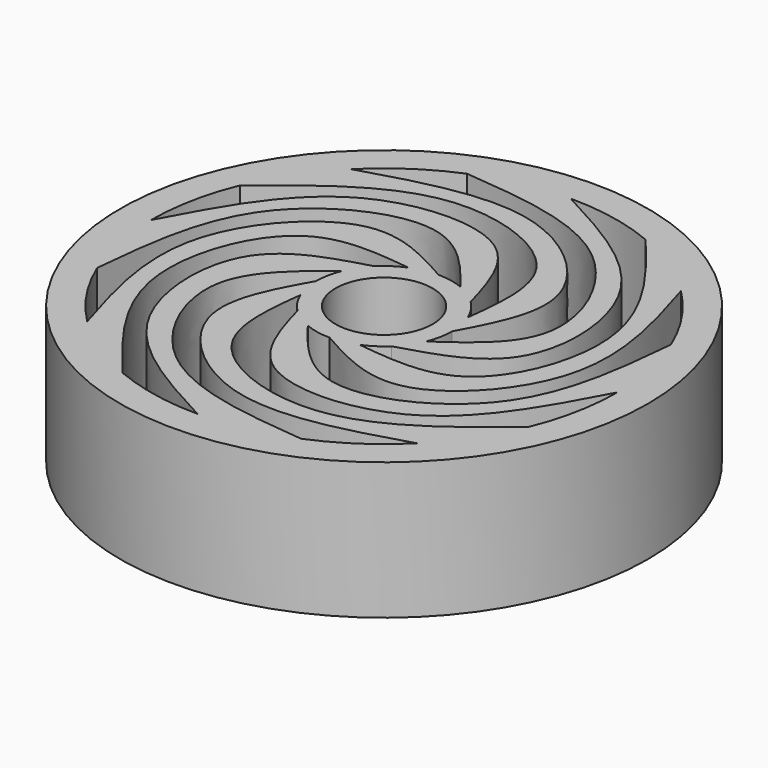
from build123d import *

# Parameters (mm, degrees)
F0_R     = 13.5
F0_R_2   = 2.4852724595
F1_DEPTH = 7


with BuildPart() as f1:
    # F0 (on Top) → F1 (new body)
    with BuildSketch(Plane.XY):
        Circle(F0_R)
        with BuildLine():
            ThreePointArc((-11.0212433186, 4.5651484568), (-9.9188569362, 6.6275683173), (-8.4352944442, 8.4352944442))
            ThreePointArc((-8.4352944442, 8.4352944442), (-6.6275683173, 9.9188569362), (-4.5651484568, 11.0212433186))
            ThreePointArc((-4.5651484568, 11.0212433186), (-2.3272925012, 11.7000895011), (0, 11.9293078056))
            ThreePointArc((0, 11.9293078056), (2.3272925012, 11.7000895011), (4.5651484568, 11.0212433186))
            ThreePointArc((4.5651484568, 11.0212433186), (6.6275683173, 9.9188569362), (8.4352944442, 8.4352944442))
            ThreePointArc((8.4352944442, 8.4352944442), (9.9188569362, 6.6275683173), (11.0212433186, 4.5651484568))
            ThreePointArc((11.0212433186, 4.5651484568), (11.7000895011, 2.3272925012), (11.9293078056, 0))
            ThreePointArc((11.9293078056, 0), (11.7000895011, -2.3272925012), (11.0212433186, -4.5651484568))
            ThreePointArc((11.0212433186, -4.5651484568), (9.9188569362, -6.6275683173), (8.4352944442, -8.4352944442))
            ThreePointArc((8.4352944442, -8.4352944442), (6.6275683173, -9.9188569362), (4.5651484568, -11.0212433186))
            ThreePointArc((4.5651484568, -11.0212433186), (2.3272925012, -11.7000895011), (0, -11.9293078056))
            ThreePointArc((0, -11.9293078056), (-2.3272925012, -11.7000895011), (-4.5651484568, -11.0212433186))
            ThreePointArc((-4.5651484568, -11.0212433186), (-6.6275683173, -9.9188569362), (-8.4352944442, -8.4352944442))
            ThreePointArc((-8.4352944442, -8.4352944442), (-9.9188569362, -6.6275683173), (-11.0212433186, -4.5651484568))
            ThreePointArc((-11.0212433186, -4.5651484568), (-11.7000895011, -2.3272925012), (-11.9293078056, 0))
            ThreePointArc((-11.9293078056, 0), (-11.7000895011, 2.3272925012), (-11.0212433186, 4.5651484568))
        make_face(mode=Mode.SUBTRACT)
        with BuildLine():
            add(Edge.make_bspline(
                [(11.0212433186, 4.5651484568), (10.7307703614, 1.5514252721), (10.1663660438, -4.1433714543), (2.2942810987, -7.8104935299), (-0.1989491839, -4.6915291397), (-1.3315016332, -3.2145293013)],
                knots=[0, 0, 0, 0, 0.3754408897, 0.7085801344, 1, 1, 1, 1], degree=3))
            ThreePointArc((-1.3315016332, -3.2145293013), (-1.9330407592, -2.8929999397), (-2.4602942129, -2.4602942129))
            add(Edge.make_bspline(
                [(11.9293078056, 0), (10.5030009531, -2.6730846833), (7.8115947966, -7.7171301221), (-0.8744432081, -8.0954908894), (-1.9556350248, -4.2535609012), (-2.4602942129, -2.4602942129)],
                knots=[0, 0, 0, 0, 0.3754632807, 0.7084900303, 1, 1, 1, 1], degree=3))
            ThreePointArc((11.9293078056, 0), (11.7000895011, 2.3272925012), (11.0212433186, 4.5651484568))
        make_face()
        with BuildLine():
            add(Edge.make_bspline(
                [(4.5651484568, 11.0212433186), (6.4882912926, 8.6805285734), (10.1197801342, 4.2634610727), (7.1432551055, -3.9049968446), (3.1838363189, -3.436219375), (1.3315016332, -3.2145293013)],
                knots=[0, 0, 0, 0, 0.3754632807, 0.7084900303, 1, 1, 1, 1], degree=3))
            ThreePointArc((1.3315016332, -3.2145293013), (0.6787936462, -3.4125261045), (0, -3.4793814433))
            add(Edge.make_bspline(
                [(8.4352944442, 8.4352944442), (9.3162939954, 5.5368010983), (10.9810136566, 0.0662522262), (5.1051295916, -6.3413520413), (1.6264969852, -4.3930541604), (0, -3.4793814433)],
                knots=[0, 0, 0, 0, 0.3754632807, 0.7084900303, 1, 1, 1, 1], degree=3))
            ThreePointArc((8.4352944442, 8.4352944442), (6.6275683173, 9.9188569362), (4.5651484568, 11.0212433186))
        make_face()
        with BuildLine():
            add(Edge.make_bspline(
                [(-4.5651484568, 11.0212433186), (-1.5653669998, 10.7472190798), (4.1505997502, 10.2265263001), (7.9846135159, 1.9883168119), (4.7170514854, -0.2873495043), (3.2145293013, -1.3315016332)],
                knots=[0, 0, 0, 0, 0.3743391134, 0.7130961412, 1, 1, 1, 1], degree=3))
            ThreePointArc((3.2145293013, -1.3315016332), (2.8692477592, -1.968124113), (2.399653463, -2.5194758355))
            add(Edge.make_bspline(
                [(0, 11.9293078056), (2.6660813096, 10.5051188653), (7.7130575447, 7.806165889), (8.1160713079, -0.8810343308), (4.1864871277, -1.9887456195), (2.399653463, -2.5194758355)],
                knots=[0, 0, 0, 0, 0.3745960123, 0.7068535161, 1, 1, 1, 1], degree=3))
            ThreePointArc((0, 11.9293078056), (-2.3272925012, 11.7000895011), (-4.5651484568, 11.0212433186))
        make_face()
        with BuildLine():
            ThreePointArc((3.2145293013, 1.3315016332), (3.4125261045, 0.6787936462), (3.4793814433, 0))
            add(Edge.make_bspline(
                [(-8.4352944442, 8.4352944442), (-5.5290587898, 9.3115098739), (-0.061134709, 10.963342265), (6.2453098168, 5.1735666291), (4.3680084471, 1.6563982723), (3.4793814433, 0)],
                knots=[0, 0, 0, 0, 0.3758594316, 0.7069067859, 1, 1, 1, 1], degree=3))
            ThreePointArc((-8.4352944442, 8.4352944442), (-9.9188569362, 6.6275683173), (-11.0212433186, 4.5651484568))
            add(Edge.make_bspline(
                [(-11.0212433186, 4.5651484568), (-8.6805285734, 6.4882912926), (-4.2634610727, 10.1197801342), (3.9049968446, 7.1432551055), (3.436219375, 3.1838363189), (3.2145293013, 1.3315016332)],
                knots=[0, 0, 0, 0, 0.3754632807, 0.7084900303, 1, 1, 1, 1], degree=3))
        make_face()
        with BuildLine():
            ThreePointArc((1.3315016332, 3.2145293013), (1.9330407592, 2.8929999397), (2.4602942129, 2.4602942129))
            add(Edge.make_bspline(
                [(-11.9293078056, 0), (-10.5030009531, 2.6730846833), (-7.8115947966, 7.7171301221), (0.8744432081, 8.0954908894), (1.9556350248, 4.2535609012), (2.4602942129, 2.4602942129)],
                knots=[0, 0, 0, 0, 0.3754632807, 0.7084900303, 1, 1, 1, 1], degree=3))
            ThreePointArc((-11.9293078056, 0), (-11.7000895011, -2.3272925012), (-11.0212433186, -4.5651484568))
            add(Edge.make_bspline(
                [(-11.0212433186, -4.5651484568), (-10.7264528322, -1.5497162273), (-10.170190392, 4.1403306606), (-2.2901300579, 7.8138932667), (0.179003887, 4.6781669807), (1.3315016332, 3.2145293013)],
                knots=[0, 0, 0, 0, 0.3754632807, 0.7084900303, 1, 1, 1, 1], degree=3))
        make_face()
        with BuildLine():
            ThreePointArc((-1.3315016332, 3.2145293013), (-0.6787936462, 3.4125261045), (0, 3.4793814433))
            add(Edge.make_bspline(
                [(-8.4352944442, -8.4352944442), (-9.316899503, -5.5365868906), (-10.9804666932, -0.0667966119), (-5.1060517827, 6.3427012272), (-1.6248789699, 4.390564545), (0, 3.4793814433)],
                knots=[0, 0, 0, 0, 0.3754632807, 0.7084900303, 1, 1, 1, 1], degree=3))
            ThreePointArc((-8.4352944442, -8.4352944442), (-6.6275683173, -9.9188569362), (-4.5651484568, -11.0212433186))
            add(Edge.make_bspline(
                [(-4.5651484568, -11.0212433186), (-6.4889326824, -8.680562389), (-10.1190664786, -4.2637547057), (-7.1446234101, 3.9058904226), (-3.1813887332, 3.4345384579), (-1.3315016332, 3.2145293013)],
                knots=[0, 0, 0, 0, 0.3754632807, 0.7084900303, 1, 1, 1, 1], degree=3))
        make_face()
        with BuildLine():
            ThreePointArc((-3.2145293013, 1.3315016332), (-2.8929999397, 1.9330407592), (-2.4602942129, 2.4602942129))
            add(Edge.make_bspline(
                [(0, -11.9293078056), (-2.6939798135, -10.4868757597), (-7.7661281647, -7.7751649278), (-8.0802993691, 0.8709922033), (-4.2507900744, 1.9539046045), (-2.4602942129, 2.4602942129)],
                knots=[0, 0, 0, 0, 0.3765580427, 0.7085450955, 1, 1, 1, 1], degree=3))
            ThreePointArc((0, -11.9293078056), (2.3272925012, -11.7000895011), (4.5651484568, -11.0212433186))
            add(Edge.make_bspline(
                [(4.5651484568, -11.0212433186), (1.5497162273, -10.7264528322), (-4.1403306606, -10.170190392), (-7.8138932667, -2.2901300579), (-4.6781669807, 0.179003887), (-3.2145293013, 1.3315016332)],
                knots=[0, 0, 0, 0, 0.3754632807, 0.7084900303, 1, 1, 1, 1], degree=3))
        make_face()
        with BuildLine():
            add(Edge.make_bspline(
                [(11.0212433186, -4.5651484568), (8.680562389, -6.4889326824), (4.2637547057, -10.1190664786), (-3.9058904226, -7.1446234101), (-3.4345384579, -3.1813887332), (-3.2145293013, -1.3315016332)],
                knots=[0, 0, 0, 0, 0.3754632807, 0.7084900303, 1, 1, 1, 1], degree=3))
            ThreePointArc((-3.2145293013, -1.3315016332), (-3.4125261045, -0.6787936462), (-3.4793814433, 0))
            add(Edge.make_bspline(
                [(8.4352944442, -8.4352944442), (5.5284668219, -9.3179401167), (0.0480432269, -10.9832806768), (-6.3386089617, -5.1034639943), (-4.3895776289, -1.6246506872), (-3.4793814433, 0)],
                knots=[0, 0, 0, 0, 0.3758036016, 0.7085073702, 1, 1, 1, 1], degree=3))
            ThreePointArc((8.4352944442, -8.4352944442), (9.9188569362, -6.6275683173), (11.0212433186, -4.5651484568))
        make_face()
        with BuildLine():
            ThreePointArc((3.2145293013, -1.3315016332), (3.4125261045, -0.6787936462), (3.4793814433, 0))
            ThreePointArc((3.4793814433, 0), (3.4125261045, 0.6787936462), (3.2145293013, 1.3315016332))
            ThreePointArc((3.2145293013, 1.3315016332), (2.8929999397, 1.9330407592), (2.4602942129, 2.4602942129))
            ThreePointArc((2.4602942129, 2.4602942129), (1.9330407592, 2.8929999397), (1.3315016332, 3.2145293013))
            ThreePointArc((1.3315016332, 3.2145293013), (0.6787936462, 3.4125261045), (0, 3.4793814433))
            ThreePointArc((0, 3.4793814433), (-0.6787936462, 3.4125261045), (-1.3315016332, 3.2145293013))
            ThreePointArc((-1.3315016332, 3.2145293013), (-1.9330407592, 2.8929999397), (-2.4602942129, 2.4602942129))
            ThreePointArc((-2.4602942129, 2.4602942129), (-2.8929999397, 1.9330407592), (-3.2145293013, 1.3315016332))
            ThreePointArc((-3.2145293013, 1.3315016332), (-3.4125261045, 0.6787936462), (-3.4793814433, 0))
            ThreePointArc((-3.4793814433, 0), (-3.4125261045, -0.6787936462), (-3.2145293013, -1.3315016332))
            ThreePointArc((-3.2145293013, -1.3315016332), (-2.8929999397, -1.9330407592), (-2.4602942129, -2.4602942129))
            ThreePointArc((-2.4602942129, -2.4602942129), (-1.9330407592, -2.8929999397), (-1.3315016332, -3.2145293013))
            ThreePointArc((-1.3315016332, -3.2145293013), (-0.6787936462, -3.4125261045), (0, -3.4793814433))
            ThreePointArc((0, -3.4793814433), (0.6787936462, -3.4125261045), (1.3315016332, -3.2145293013))
            ThreePointArc((1.3315016332, -3.2145293013), (1.8976707876, -2.9163231662), (2.399653463, -2.5194758355))
            ThreePointArc((2.399653463, -2.5194758355), (2.8692477592, -1.968124113), (3.2145293013, -1.3315016332))
        make_face()
        Circle(F0_R_2, mode=Mode.SUBTRACT)
    extrude(amount=F1_DEPTH)


solid = f1.part
